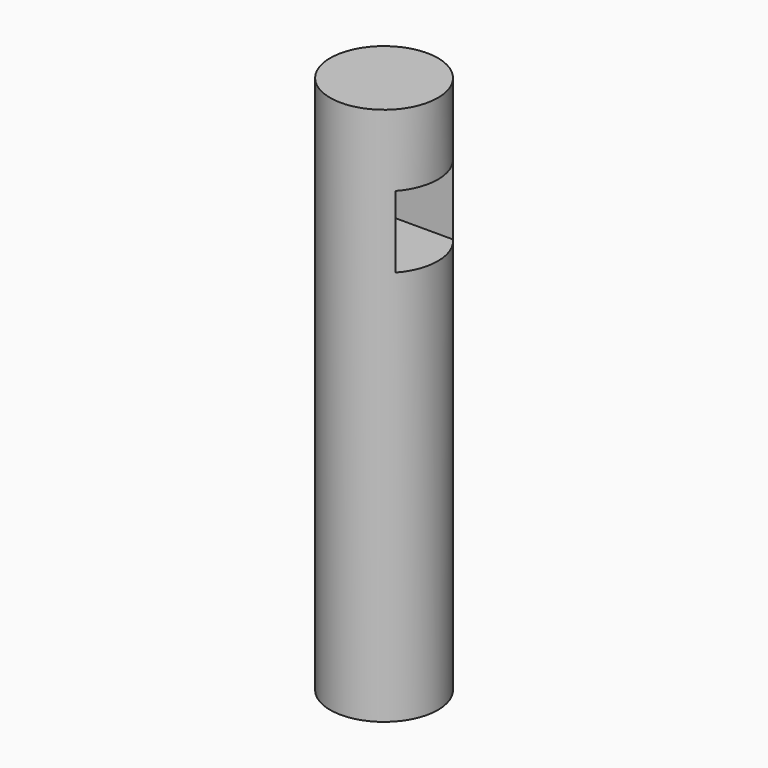
from build123d import *

# Parameters (mm, degrees)
F0_R     = 15
F1_DEPTH = 150
F2_W     = 20
F2_H     = 20
F3_DEPTH = 25


with BuildPart() as f1:
    # F0 (on Top) → F1 (new body)
    with BuildSketch(Plane.XY):
        Circle(F0_R)
    extrude(amount=F1_DEPTH)

    # F2 (on Right) → F3 (cut, symmetric)
    with BuildSketch(Plane.YZ):
        with Locations((0, 120)):
            Rectangle(F2_W, F2_H)
    extrude(amount=F3_DEPTH, both=True, mode=Mode.SUBTRACT)


solid = f1.part
